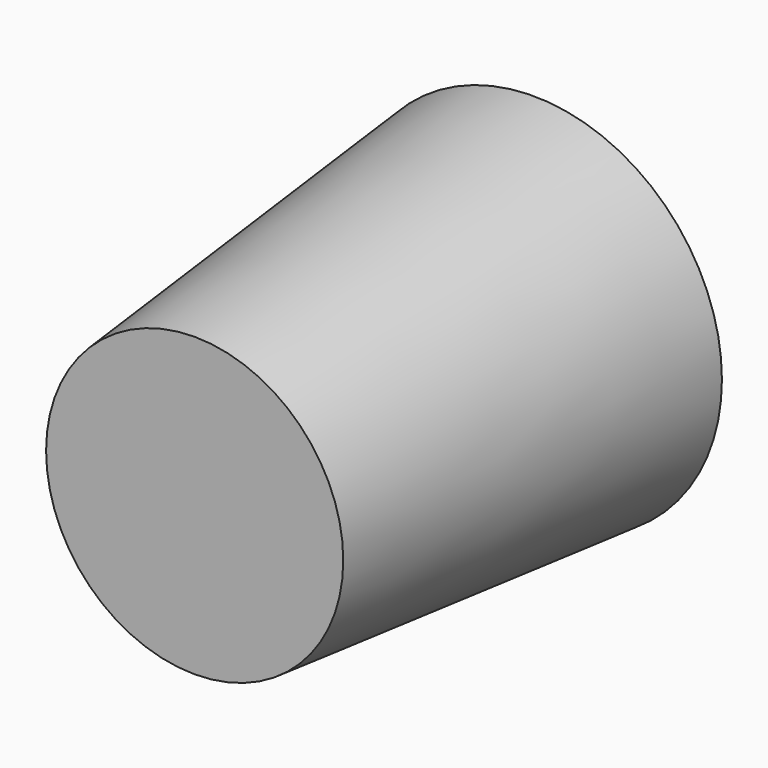
from build123d import *

# Parameters (mm, degrees)
F2_R = 160.3375
F0_R = 203.2


with BuildPart() as f3:
    # F2 (on offset) → F3 section 0
    with BuildSketch(Plane.XZ.offset(457.2)):
        Circle(F2_R)
    # F0 (on Front) → F3 section 1
    with BuildSketch(Plane.XZ):
        Circle(F0_R)
    loft()


solid = f3.part
